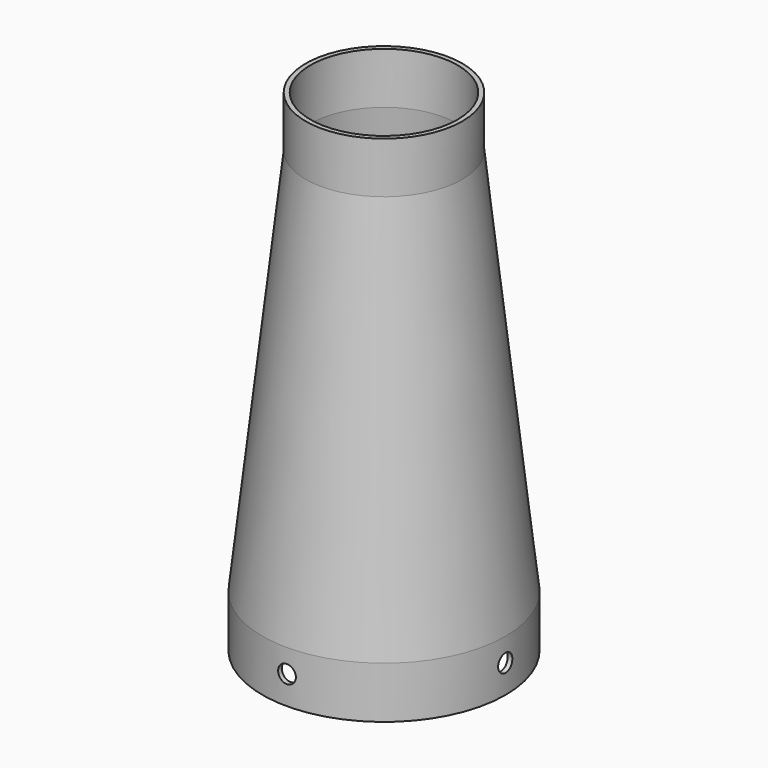
from build123d import *

# Parameters (mm, degrees)
F2_R     = 2.413
F4_DEPTH = 50.8
F3_R     = 2.413
F5_DEPTH = 50.8


with BuildPart() as f1:
    # F0 (on Front) → F1 (revolve)
    with BuildSketch(Plane.XZ):
        Polygon((31.75, 13.97), (31.75, 0), (33.02, 0), (33.02, 14.04055), (21.2725, 119.45055), (21.2725, 133.35), (20.0025, 133.35), (20.0025, 119.38), align=None)
    revolve(axis=Axis((0, 0, 24.955008), (0, 0, 1)))

    # F2 (on Front) → F4 (cut, symmetric)
    with BuildSketch(Plane.XZ):
        with Locations((0, 7.69055)):
            Circle(F2_R)
    extrude(amount=F4_DEPTH, both=True, mode=Mode.SUBTRACT)

    # F3 (on Right) → F5 (cut, symmetric)
    with BuildSketch(Plane.YZ):
        with Locations((0, 7.69055)):
            Circle(F3_R)
    extrude(amount=F5_DEPTH, both=True, mode=Mode.SUBTRACT)


solid = f1.part
